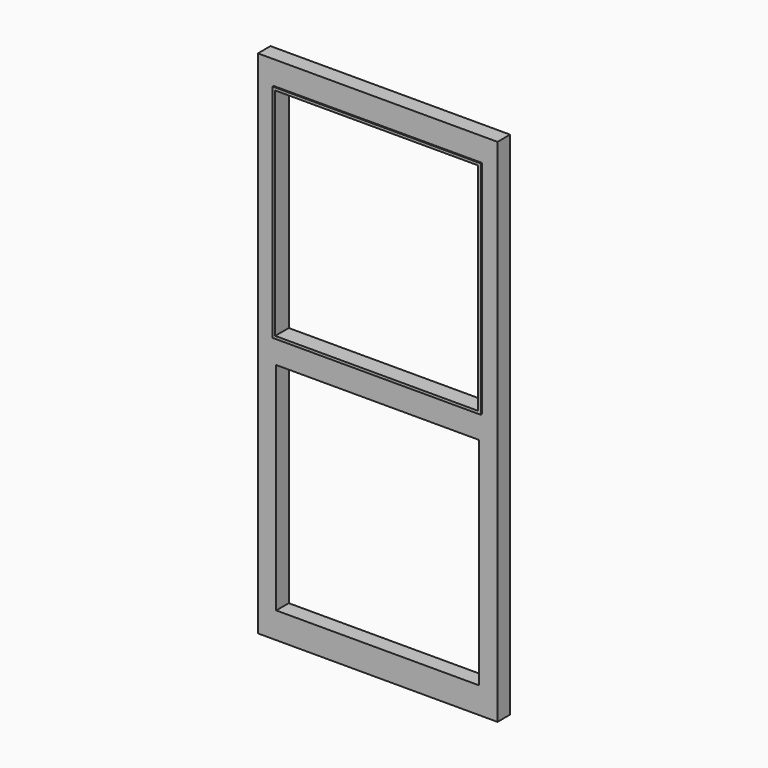
from build123d import *

# Parameters (mm, degrees)
F0_W     = 775
F0_H     = 100
F1_DEPTH = 60
F2_W     = 775
F2_H     = 10
F3_DEPTH = 65


with BuildPart() as f1:
    # F0 (on Front) → F1 (new body)
    with BuildSketch(Plane.XZ):
        Polygon((-231.40455, 951.369763), (-301.40455, 951.369763), (-301.40455, -998.630237), (-231.40455, -998.630237), (-231.40455, -898.630237), (-231.40455, -73.630237), (-231.40455, 26.369763), (-231.40455, 851.369763), align=None)
        with Locations((156.09545, 901.369763)):
            Rectangle(F0_W, F0_H)
        Polygon((613.59545, 951.369763), (543.59545, 951.369763), (543.59545, 851.369763), (543.59545, 26.369763), (543.59545, -73.630237), (543.59545, -898.630237), (543.59545, -998.630237), (613.59545, -998.630237), align=None)
        with Locations((156.09545, -23.630237)):
            Rectangle(F0_W, F0_H)
        with Locations((156.09545, -948.630237)):
            Rectangle(F0_W, F0_H)
    extrude(amount=F1_DEPTH)

    # F2 (on Front) → F3 (join)
    with BuildSketch(Plane.XZ):
        Polygon((-241.40455, 16.369763), (-231.40455, 16.369763), (-231.40455, 26.369763), (-231.40455, 851.369763), (-231.40455, 861.369763), (-241.40455, 861.369763), align=None)
        with Locations((156.09545, 21.369763)):
            Rectangle(F2_W, F2_H)
        Polygon((543.59545, 26.369763), (543.59545, 16.369763), (553.59545, 16.369763), (553.59545, 861.369763), (543.59545, 861.369763), (543.59545, 851.369763), align=None)
        with Locations((156.09545, 856.369763)):
            Rectangle(F2_W, F2_H)
    extrude(amount=F3_DEPTH)


solid = f1.part
